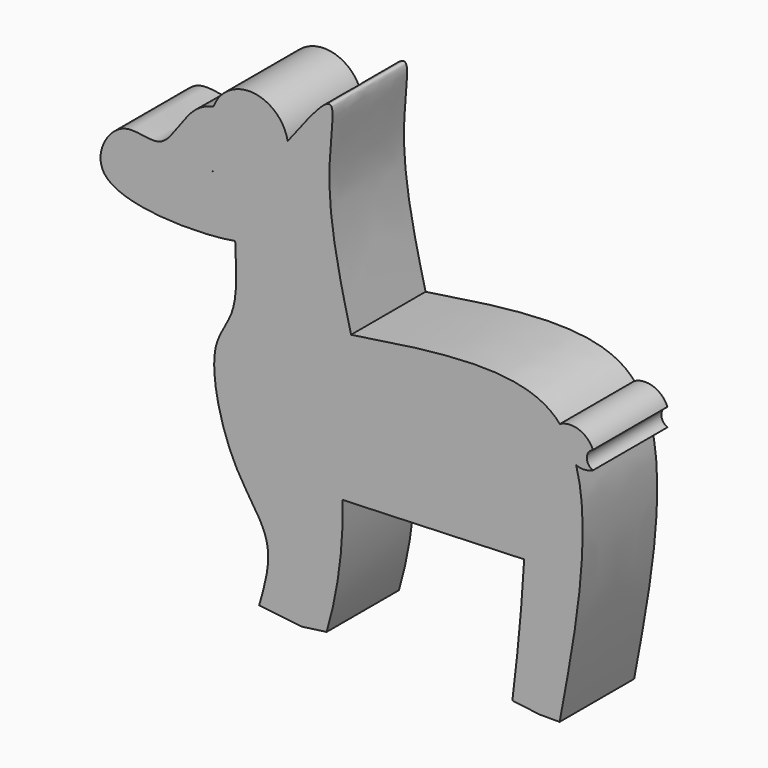
from build123d import *

# Parameters (mm, degrees)
F1_DEPTH = 25.4
F3_DEPTH = 24.638


with BuildPart() as f1:
    # F0 (on Front) → F1 (new body)
    with BuildSketch(Plane.XZ):
        with BuildLine():
            ThreePointArc((-46.4862426009, 23.8157141108), (-29.8551050215, 21.5207532176), (-26.2572001666, 37.9194319248))
            add(Edge.make_bspline(
                [(-26.2572001666, 37.9194319248), (-33.5785732102, 39.4513797897), (-40.8999462537, 40.9833276545), (-46.4622259382, 39.6582663738)],
                knots=[0, 0, 0, 0, 0.1645686981, 0.1645686981, 0.1645686981, 0.1645686981], degree=3))
            ThreePointArc((-46.4622259382, 39.6582663738), (-46.7732025891, 33.2630857663), (-43.3209426701, 27.8707817197))
            ThreePointArc((-43.3209426701, 27.8707817197), (-42.75295438, 24.1645052215), (-46.4862426009, 23.8157141108))
        make_face()
        with BuildLine():
            add(Edge.make_bspline(
                [(-26.2572001666, 37.9194319248), (-33.5785732102, 39.4513797897), (-40.8999462537, 40.9833276545), (-46.4622259382, 39.6582663738)],
                knots=[0, 0, 0, 0, 0.1645686981, 0.1645686981, 0.1645686981, 0.1645686981], degree=3))
            ThreePointArc((-26.2572001666, 37.9194319248), (-35.699445364, 46.4610721536), (-46.4622259382, 39.6582663738))
        make_face()
        with BuildLine():
            add(Edge.make_bspline(
                [(-26.2572001666, 37.9194319248), (-21.2848663216, 44.5178757287), (-11.4483296844, 57.5712700198), (-17.1229667839, 30.8499658929), (-12.1318281567, 9.7139809287), (-8.9813978684, -2.9307255803)],
                knots=[0, 0, 0, 0, 0.2852219899, 0.5642413886, 0.9762354153, 0.9762354153, 0.9762354153, 0.9762354153], degree=3))
            ThreePointArc((-26.2572001666, 37.9194319248), (-29.8551050215, 21.5207532176), (-46.4862426009, 23.8157141108))
            ThreePointArc((-46.4862426009, 23.8157141108), (-42.75295438, 24.1645052215), (-43.3209426701, 27.8707817197))
            ThreePointArc((-43.3209426701, 27.8707817197), (-46.7732025891, 33.2630857663), (-46.4622259382, 39.6582663738))
            add(Edge.make_bspline(
                [(-46.4622259382, 39.6582663738), (-47.9546637508, 39.3027338096), (-54.4687249908, 36.6260590315), (-59.204777521, 22.3686329219), (-72.3635551118, 30.541434958), (-84.8045836551, 7.5055250894), (-50.2965651717, 7.5626151235), (-40.5588783311, 9.284645475)],
                knots=[0.1645686981, 0.1645686981, 0.1645686981, 0.1645686981, 0.2087247926, 0.3751678059, 0.5132702951, 0.669236946, 0.8887619241, 0.8887619241, 0.8887619241, 0.8887619241], degree=3))
            add(Edge.make_bspline(
                [(-40.5588783311, 9.284645475), (-40.2244215579, 2.9095372853), (-39.6152527774, -8.6489043019), (-48.9282482124, -17.6683761849), (-42.4825879873, -45.6063545007), (-29.1342983998, -58.9969255104), (-32.432355946, -70.4688856478), (-34.0306833386, -76.0284587741)],
                knots=[0, 0, 0, 0, 0.1985639192, 0.3597333515, 0.6048956396, 0.8085027208, 1, 1, 1, 1], degree=3))
            add(Edge.make_bspline(
                [(-34.0306833386, -76.0284587741), (-30.1755412171, -76.4708518982), (-26.3203990956, -76.9132450223), (-22.4652569741, -77.3556381464)],
                knots=[0, 0, 0, 0, 11.6413269037, 11.6413269037, 11.6413269037, 11.6413269037], degree=3))
            add(Edge.make_bspline(
                [(-20.3018153965, -43.6350402281), (-19.9338059871, -47.9677109939), (-19.3292219931, -60.3156512029), (-21.2182682476, -70.5799893582), (-22.4652569741, -77.3556381464)],
                knots=[0.3055460212, 0.3055460212, 0.3055460212, 0.3055460212, 0.5415801595, 1, 1, 1, 1], degree=3))
            add(Edge.make_bspline(
                [(-20.3018153965, -43.6350402281), (0.2083386626, -42.8949527825), (20.7004662969, -42.113893037), (41.2106203561, -41.3738055914)],
                knots=[0, 0, 0, 0, 61.5539839027, 61.5539839027, 61.5539839027, 61.5539839027], degree=3))
            add(Edge.make_bspline(
                [(41.2106203561, -41.3738055914), (41.8876965674, -42.0052244917), (45.5136908231, -46.3501180704), (43.8031563705, -63.2582394955), (42.3769727349, -77.3556381464)],
                knots=[0.4245594021, 0.4245594021, 0.4245594021, 0.4245594021, 0.5202178111, 1, 1, 1, 1], degree=3))
            add(Edge.make_bspline(
                [(42.3769727349, -77.3556381464), (44.2097435395, -77.3556381464), (46.0425143441, -77.3556381464), (47.8752851486, -77.3556381464)],
                knots=[0, 0, 0, 0, 5.4983124137, 5.4983124137, 5.4983124137, 5.4983124137], degree=3))
            add(Edge.make_bspline(
                [(52.3864964181, -14.2706181318), (53.5131222585, -18.0947594075), (55.5788689173, -36.43703812), (51.206238736, -59.6640147088), (47.8752851486, -77.3556381464)],
                knots=[0.5220036326, 0.5220036326, 0.5220036326, 0.5220036326, 0.6358895624, 1, 1, 1, 1], degree=3))
            ThreePointArc((52.3864964181, -14.2706181318), (49.1690411166, -11.3433428892), (48.897415601, -7.0020091607))
            add(Edge.make_bspline(
                [(47.9479525169, -5.8392007163), (48.2807380693, -6.2122010878), (48.5969884032, -6.6000410714), (48.897415601, -7.0020091607)],
                knots=[0.4248007478, 0.4248007478, 0.4248007478, 0.4248007478, 0.4405556349, 0.4405556349, 0.4405556349, 0.4405556349], degree=3))
            add(Edge.make_bspline(
                [(-8.9813978684, -2.9307255803), (12.2262396811, 0.3668984768), (36.4031082958, 4.128462424), (46.8487158168, -4.6071289077), (47.9479525169, -5.8392007163)],
                knots=[0, 0, 0, 0, 0.372760177, 0.4248007478, 0.4248007478, 0.4248007478, 0.4248007478], degree=3))
        make_face()
        with BuildLine():
            ThreePointArc((-47.1128895879, 24.6476288885), (-46.8083266273, 24.2250725526), (-46.4862426009, 23.8157141108))
            ThreePointArc((-46.4862426009, 23.8157141108), (-46.8420398942, 24.1996777433), (-47.1128895879, 24.6476288885))
        make_face(mode=Mode.SUBTRACT)
        with BuildLine():
            ThreePointArc((56.9514993654, -9.1224809065), (53.1738513822, -5.4951140517), (47.9479525169, -5.8392007163))
            add(Edge.make_bspline(
                [(47.9479525169, -5.8392007163), (48.2807380693, -6.2122010878), (48.5969884032, -6.6000410714), (48.897415601, -7.0020091607)],
                knots=[0.4248007478, 0.4248007478, 0.4248007478, 0.4248007478, 0.4405556349, 0.4405556349, 0.4405556349, 0.4405556349], degree=3))
            add(Edge.make_bspline(
                [(48.897415601, -7.0020091607), (50.4505332837, -9.0800625191), (51.580765464, -11.5357003907), (52.3864964181, -14.2706181318)],
                knots=[0.4405556349, 0.4405556349, 0.4405556349, 0.4405556349, 0.5220036326, 0.5220036326, 0.5220036326, 0.5220036326], degree=3))
            ThreePointArc((52.3864964181, -14.2706181318), (54.6937283173, -14.6199582074), (56.9514993654, -14.0301892534))
            ThreePointArc((56.9514993654, -14.0301892534), (55.2984202513, -11.5763350799), (56.9514993654, -9.1224809065))
        make_face()
        with BuildLine():
            add(Edge.make_bspline(
                [(48.897415601, -7.0020091607), (50.4505332837, -9.0800625191), (51.580765464, -11.5357003907), (52.3864964181, -14.2706181318)],
                knots=[0.4405556349, 0.4405556349, 0.4405556349, 0.4405556349, 0.5220036326, 0.5220036326, 0.5220036326, 0.5220036326], degree=3))
            ThreePointArc((48.897415601, -7.0020091607), (49.1690411166, -11.3433428892), (52.3864964181, -14.2706181318))
        make_face()
    extrude(amount=F1_DEPTH)

    # F2 (on face) → F3 (join)
    with BuildSketch(Plane.XZ.offset(25.4)):
        with BuildLine():
            ThreePointArc((-15.6290009618, -76.417055522), (-12.187807166, -60.0281077199), (-11.2726572913, -43.3068061704))
            add(Edge.make_bspline(
                [(-20.3018153965, -43.6350402281), (-17.2917457537, -43.526425015), (-14.2820643728, -43.4169273205), (-11.2726572913, -43.3068061704)],
                knots=[0, 0, 0, 0, 9.0336609762, 9.0336609762, 9.0336609762, 9.0336609762], degree=3))
            add(Edge.make_bspline(
                [(-20.3018153965, -43.6350402281), (-19.9338059871, -47.9677109939), (-19.3292219931, -60.3156512029), (-21.2182682476, -70.5799893582), (-22.4652569741, -77.3556381464)],
                knots=[0.3055460212, 0.3055460212, 0.3055460212, 0.3055460212, 0.5415801595, 1, 1, 1, 1], degree=3))
            add(Edge.make_bspline(
                [(-15.6290009618, -76.417055522), (-17.9077529659, -76.7299163968), (-20.18650497, -77.0427772716), (-22.4652569741, -77.3556381464)],
                knots=[0, 0, 0, 0, 6.9003864826, 6.9003864826, 6.9003864826, 6.9003864826], degree=3))
        make_face()
        with BuildLine():
            ThreePointArc((38.2086128765, -41.4824174773), (36.899968005, -58.9771543034), (34.9951810088, -76.417055522))
            add(Edge.make_bspline(
                [(34.9951810088, -76.417055522), (37.4557782508, -76.7299163968), (39.9163754929, -77.0427772716), (42.3769727349, -77.3556381464)],
                knots=[0, 0, 0, 0, 7.441222106, 7.441222106, 7.441222106, 7.441222106], degree=3))
            add(Edge.make_bspline(
                [(41.2106203561, -41.3738055914), (41.8876965674, -42.0052244917), (45.5136908231, -46.3501180704), (43.8031563705, -63.2582394955), (42.3769727349, -77.3556381464)],
                knots=[0.4245594021, 0.4245594021, 0.4245594021, 0.4245594021, 0.5202178111, 1, 1, 1, 1], degree=3))
            add(Edge.make_bspline(
                [(38.2086128765, -41.4824174773), (39.2092419151, -41.4461223236), (40.2099096791, -41.409915189), (41.2106203561, -41.3738055914)],
                knots=[58.5507042235, 58.5507042235, 58.5507042235, 58.5507042235, 61.5539839027, 61.5539839027, 61.5539839027, 61.5539839027], degree=3))
        make_face()
    extrude(amount=-F3_DEPTH)


solid = f1.part
